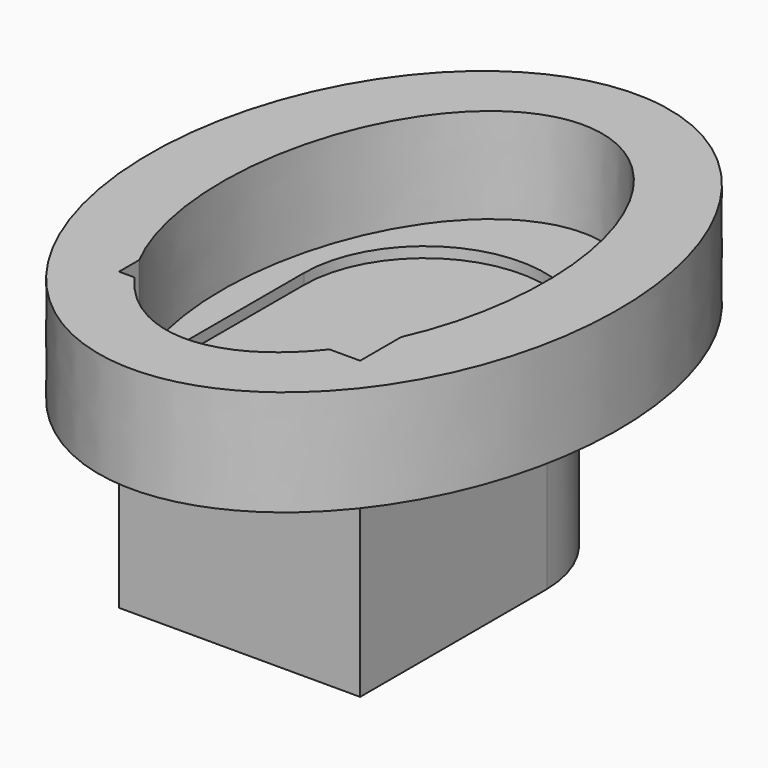
from build123d import *

# Parameters (mm, degrees)
F1_DEPTH = 45.72
F3_DEPTH = 2.54
F4_DEPTH = 25.4


with BuildPart() as f1:
    # F0 (on Top) → F1 (new body)
    with BuildSketch(Plane.XY):
        with BuildLine():
            ThreePointArc((25.22482723, 36.2606905401), (-4.0369124393, 64.6401283862), (-32.7134467661, 35.6694832444))
            Line((-32.7134467661, 35.6694832444), (-32.7134467661, -19.9039652944))
            Line((-32.7134467661, -19.9039652944), (25.22482723, -19.9039652944))
            Line((25.22482723, -19.9039652944), (25.22482723, 36.2606905401))
        make_face()
    extrude(amount=F1_DEPTH)


with BuildPart() as f3:
    # F2 (on face) → F3 (new body)
    with BuildSketch(Plane.XY.offset(45.72)):
        with BuildLine():
            add(Edge.make_bspline(
                [(25.22482723, -7.5858282217), (63.5734955781, 77.2932996004), (-0.6824364536, 81.0605660081)],
                knots=[4.1683618973, 4.1683618973, 4.1683618973, 6.2831853072, 6.2831853072, 6.2831853072], degree=2, weights=[1, 0.4911283552, 1]))
            add(Edge.make_bspline(
                [(-0.6824364536, 81.0605660081), (-84.5497867693, 85.9776318969), (-32.7134467661, -13.8286861404)],
                knots=[0, 0, 0, 2.3260735944, 2.3260735944, 2.3260735944], degree=2, weights=[1, 0.3965535472, 1]))
            Line((-32.7134467661, -13.8286861404), (-32.7134467661, 35.6694832444))
            ThreePointArc((-32.7134467661, 35.6694832444), (-4.0369124393, 64.6401283862), (25.22482723, 36.2606905401))
            Line((25.22482723, 36.2606905401), (25.22482723, -7.5858282217))
        make_face()
    extrude(amount=F3_DEPTH)


with BuildPart() as f3b:
    # F2 (on face) → F3, piece 2 (new body)
    with BuildSketch(Plane.XY.offset(45.72)):
        with BuildLine():
            Line((17.8627317463, -19.9039652944), (-29.0055276221, -19.9039652944))
            add(Edge.make_bspline(
                [(-29.0055276221, -19.9039652944), (-6.6650109788, -51.0836773686), (17.8627317463, -19.9039652944)],
                knots=[2.4775760464, 2.4775760464, 2.4775760464, 3.8798220453, 3.8798220453, 3.8798220453], degree=2, weights=[1, 0.764118249, 1]))
        make_face()
    extrude(amount=F3_DEPTH)


with BuildPart() as f4:
    # F2 (on face) → F4 (new body)
    with BuildSketch(Plane.XY.offset(45.72)):
        with BuildLine():
            add(Edge.make_bspline(
                [(0.4323533212, 96.9463288784), (-92.9852208549, 102.6577152688), (-52.9803324076, -9.8494540712), (-12.9754439602, -122.3566234112), (40.4372417686, -15.5608404616), (93.8499274974, 91.234942488), (0.4323533212, 96.9463288784)],
                knots=[0, 0, 0, 2.0943951024, 2.0943951024, 4.1887902048, 4.1887902048, 6.2831853072, 6.2831853072, 6.2831853072], degree=2, weights=[1, 0.5, 1, 0.5, 1, 0.5, 1]))
        make_face()
        with BuildLine():
            add(Edge.make_bspline(
                [(-0.6824364536, 81.0605660081), (-84.5497867693, 85.9776318969), (-32.7134467661, -13.8286861404)],
                knots=[0, 0, 0, 2.3260735944, 2.3260735944, 2.3260735944], degree=2, weights=[1, 0.3965535472, 1]))
            add(Edge.make_bspline(
                [(25.22482723, -7.5858282217), (63.5734955781, 77.2932996004), (-0.6824364536, 81.0605660081)],
                knots=[4.1683618973, 4.1683618973, 4.1683618973, 6.2831853072, 6.2831853072, 6.2831853072], degree=2, weights=[1, 0.4911283552, 1]))
            Line((25.22482723, -7.5858282217), (25.22482723, -19.9039652944))
            Line((25.22482723, -19.9039652944), (17.8627317463, -19.9039652944))
            add(Edge.make_bspline(
                [(-29.0055276221, -19.9039652944), (-6.6650109788, -51.0836773686), (17.8627317463, -19.9039652944)],
                knots=[2.4775760464, 2.4775760464, 2.4775760464, 3.8798220453, 3.8798220453, 3.8798220453], degree=2, weights=[1, 0.764118249, 1]))
            Line((-29.0055276221, -19.9039652944), (-32.7134467661, -19.9039652944))
            Line((-32.7134467661, -19.9039652944), (-32.7134467661, -13.8286861404))
        make_face(mode=Mode.SUBTRACT)
    extrude(amount=F4_DEPTH)


solid = Compound([f1.part, f3.part, f3b.part, f4.part])
